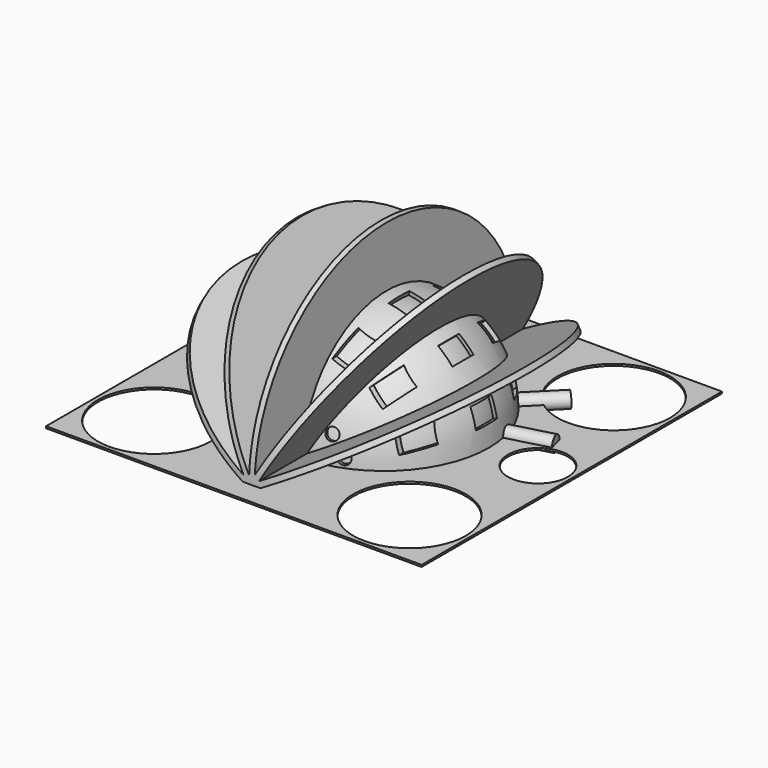
from build123d import *

# Parameters (mm, degrees)
CYLINDER_R                  = 2
CYLINDER_DEPTH              = 39
CYLINDER_PITCH_ANGLE        = 90
CYLINDER_PLACEMENT_ANGLE    = 15
ARRAY_COUNT                 = 6
ARRAY_ANGLE                 = 150
SPHERE009_ANGLE             = 180
SPHERE009_ROLL_ANGLE        = 90
BOX007_W                    = 2.5
BOX007_H                    = 100
BOX007_DEPTH                = 100
BOX007_PLACEMENT_ANGLE      = 90
ARRAY001_COUNT              = 2
ARRAY001_ROLL_ANGLE         = 90
BOX009_W                    = 5.3
BOX009_H                    = 60
BOX009_DEPTH                = 7
BOX009_PLACEMENT_ANGLE      = 15
ARRAY003_COUNT              = 12
BOX008_W                    = 5
BOX008_H                    = 5.3
BOX008_DEPTH                = 120
BOX008_PLACEMENT_ANGLE      = -15
ARRAY002_COUNT              = 12
CYLINDER013_R               = 27
CYLINDER013_DEPTH           = 10
CYLINDER013_ROLL_ANGLE      = 90
CYLINDER002_R               = 1.6
CYLINDER002_DEPTH           = 39
CYLINDER002_ROLL_ANGLE      = -17.874284
CYLINDER002_PITCH_ANGLE     = 7.410184
CYLINDER002_PLACEMENT_ANGLE = 7.254845
CYLINDER003_R               = 1.6
CYLINDER003_DEPTH           = 39
CYLINDER003_ROLL_ANGLE      = -18.739996
CYLINDER003_PITCH_ANGLE     = 9.675429
CYLINDER003_PLACEMENT_ANGLE = -19.302998
CYLINDER004_R               = 1.6
CYLINDER004_DEPTH           = 39
CYLINDER004_ROLL_ANGLE      = -20.379783
CYLINDER004_PITCH_ANGLE     = -7.550786
CYLINDER004_PLACEMENT_ANGLE = 27.229302
CYLINDER005_R               = 1.6
CYLINDER005_DEPTH           = 39
CYLINDER005_ROLL_ANGLE      = -22.214611
CYLINDER005_PITCH_ANGLE     = -1.938961
CYLINDER005_PLACEMENT_ANGLE = 73.577978
CYLINDER006_R               = 1.6
CYLINDER006_DEPTH           = 39
CYLINDER006_ROLL_ANGLE      = -21.8467
CYLINDER006_PITCH_ANGLE     = 0.650257
CYLINDER006_PLACEMENT_ANGLE = -75.779692
CYLINDER007_R               = 1.6
CYLINDER007_DEPTH           = 39
CYLINDER007_ROLL_ANGLE      = -161
CYLINDER007_PLACEMENT_ANGLE = 16
CYLINDER008_R               = 1.6
CYLINDER008_DEPTH           = 39
CYLINDER008_ROLL_ANGLE      = -161
CYLINDER008_PITCH_ANGLE     = 0
CYLINDER008_PLACEMENT_ANGLE = -15
CYLINDER009_R               = 1.6
CYLINDER009_DEPTH           = 39
CYLINDER009_ROLL_ANGLE      = -165.67
CYLINDER009_PITCH_ANGLE     = -14.3842
CYLINDER009_PLACEMENT_ANGLE = -1.8727
CYLINDER010_R               = 1.6
CYLINDER010_DEPTH           = 39
CYLINDER010_ROLL_ANGLE      = -166.499
CYLINDER010_PITCH_ANGLE     = -15
CYLINDER010_PLACEMENT_ANGLE = 94.823
CYLINDER011_R               = 1.6
CYLINDER011_DEPTH           = 39
CYLINDER011_ROLL_ANGLE      = -160.836
CYLINDER011_PITCH_ANGLE     = -7.9668
CYLINDER011_PLACEMENT_ANGLE = 99.882
CYLINDER012_R               = 1.6
CYLINDER012_DEPTH           = 39
CYLINDER012_ROLL_ANGLE      = -163.499
CYLINDER012_PITCH_ANGLE     = 13.8791
CYLINDER012_PLACEMENT_ANGLE = -116.192
CYLINDER001_R               = 1.6
CYLINDER001_DEPTH           = 39
CYLINDER001_ROLL_ANGLE      = -16.880997
CYLINDER001_PITCH_ANGLE     = -7.288422
CYLINDER001_PLACEMENT_ANGLE = -7.573199
SPHERE003_ANGLE             = 180
SPHERE_ANGLE                = 180
SPHERE002_ANGLE             = 180
BOX001_W                    = 1.5
BOX001_H                    = 50
BOX001_DEPTH                = 100
BOX001_PLACEMENT_ANGLE      = 30
BOX002_W                    = 1.5
BOX002_H                    = 50
BOX002_DEPTH                = 100
BOX002_PLACEMENT_ANGLE      = -60
BOX003_W                    = 0.5
BOX003_H                    = 50
BOX003_DEPTH                = 100
BOX003_PLACEMENT_ANGLE      = -90
BOX004_W                    = 1.5
BOX004_H                    = 50
BOX004_DEPTH                = 100
BOX004_PLACEMENT_ANGLE      = 30
BOX005_W                    = 1.5
BOX005_H                    = 50
BOX005_DEPTH                = 100
BOX005_PLACEMENT_ANGLE      = 60
BOX006_W                    = 0.5
BOX006_H                    = 50
BOX006_DEPTH                = 100
BOX006_PLACEMENT_ANGLE      = 90
BOX_W                       = 1.5
BOX_H                       = 50
BOX_DEPTH                   = 100
SPHERE001_ANGLE             = 180
CUT008_ROLL_ANGLE           = 90


with BuildPart() as array:
    # Cylinder → Cylinder (new body)
    with BuildSketch(Plane.XY):
        Circle(CYLINDER_R)
    extrude(amount=CYLINDER_DEPTH)


with BuildPart() as array_1:
    # Cylinder pitch: moved
    add(array.part.rotate(Axis((0, 0, 0), (0, 1, 0)), CYLINDER_PITCH_ANGLE))


with BuildPart() as array_2:
    # Cylinder placement: moved
    add(array_1.part.rotate(Axis((0, 0, 0), (0, 0, 1)), CYLINDER_PLACEMENT_ANGLE))


with BuildPart() as array_copy1:
    # Array: instance of Array
    add(array_2.part.rotate(Axis((0, 0, 0), (0, 0, 1)), 1 * ARRAY_ANGLE / (ARRAY_COUNT - 1)))


with BuildPart() as array_copy2:
    # Array: instance of Array
    add(array_2.part.rotate(Axis((0, 0, 0), (0, 0, 1)), 2 * ARRAY_ANGLE / (ARRAY_COUNT - 1)))


with BuildPart() as array_copy3:
    # Array: instance of Array
    add(array_2.part.rotate(Axis((0, 0, 0), (0, 0, 1)), 3 * ARRAY_ANGLE / (ARRAY_COUNT - 1)))


with BuildPart() as array_copy4:
    # Array: instance of Array
    add(array_2.part.rotate(Axis((0, 0, 0), (0, 0, 1)), 4 * ARRAY_ANGLE / (ARRAY_COUNT - 1)))


with BuildPart() as array_copy5:
    # Array: instance of Array
    add(array_2.part.rotate(Axis((0, 0, 0), (0, 0, 1)), 5 * ARRAY_ANGLE / (ARRAY_COUNT - 1)))


with BuildPart() as sphere009:
    # Sphere009 → Sphere009 (revolve)
    with BuildSketch(Plane.XZ):
        with BuildLine():
            ThreePointArc((0, -26), (26, 0), (0, 26))
            Line((0, 26), (0, -26))
        make_face()
    revolve(axis=Axis((0, 0, 0), (0, 0, 1)), revolution_arc=SPHERE009_ANGLE)


with BuildPart() as sphere009_1:
    # Sphere009 roll: moved
    add(sphere009.part.rotate(Axis((0, 0, 0), (1, 0, 0)), SPHERE009_ROLL_ANGLE))


with BuildPart() as sphere009_2:
    # Sphere009 placement: moved
    add(sphere009_1.part.moved(Location((0, -1, 0))))


with BuildPart() as obj1:
    # Box007 → Box007 (new body)
    with BuildSketch(Plane.XY):
        with Locations((1.25, 50)):
            Rectangle(BOX007_W, BOX007_H)
    extrude(amount=BOX007_DEPTH)


with BuildPart() as obj1_1:
    # Box007 placement: moved
    add(obj1.part.moved(Location((50.5, -3, -50))).rotate(Axis((50.5, -3, -50), (0, 0, 1)), BOX007_PLACEMENT_ANGLE))


with BuildPart() as array001:
    # Sphere008 → Sphere008 (revolve)
    with BuildSketch(Plane(origin=(41, 0, 0), x_dir=(1, 0, 0), z_dir=(0, -1, 0))):
        with BuildLine():
            ThreePointArc((0, -8), (8, 0), (0, 8))
            Line((0, 8), (0, -8))
        make_face()
    revolve(axis=Axis((41, 0, 0), (0, 0, 1)))

    # Array001: Array001 ×2 about axis
    array001_axis = Axis((0, 0, 0), (0, 0, 1))


with BuildPart() as array001_1:
    add(array001.part)
    for i in range(1, ARRAY001_COUNT):
        add(array001.part.rotate(array001_axis, i * 360 / ARRAY001_COUNT))


with BuildPart() as array001_2:
    # Array001 roll: moved
    add(array001_1.part.rotate(Axis((0, 0, 0), (1, 0, 0)), ARRAY001_ROLL_ANGLE))


with BuildPart() as array001_3:
    # Array001 placement: moved
    add(array001_2.part)


with BuildPart() as array003:
    # Box009 → Box009 (new body)
    with BuildSketch(Plane.XY):
        with Locations((2.65, 30)):
            Rectangle(BOX009_W, BOX009_H)
    extrude(amount=BOX009_DEPTH)


with BuildPart() as array003_1:
    # Box009 placement: moved
    add(array003.part.moved(Location((-2.65, -2.65, -3.5))).rotate(Axis((-2.65, -2.65, -3.5), (0, 0, 1)), BOX009_PLACEMENT_ANGLE))

    # Array003: Array003 ×12 about axis
    array003_axis = Axis((0, 0, 0), (0, 0, 1))


with BuildPart() as array003_2:
    add(array003_1.part)
    for i in range(1, ARRAY003_COUNT):
        add(array003_1.part.rotate(array003_axis, i * 360 / ARRAY003_COUNT))


with BuildPart() as obj2:
    # Box008 → Box008 (new body)
    with BuildSketch(Plane.XY):
        with Locations((2.5, 2.65)):
            Rectangle(BOX008_W, BOX008_H)
    extrude(amount=BOX008_DEPTH)


with BuildPart() as obj2_1:
    # Box008 placement: moved
    add(obj2.part.moved(Location((-25, 3, -60))).rotate(Axis((-25, 3, -60), (0, 0, 1)), BOX008_PLACEMENT_ANGLE))

    # Array002: obj2 ×12 about axis
    array002_axis = Axis((0, 0, 0), (0, 0, 1))


with BuildPart() as obj2_2:
    add(obj2_1.part)
    for i in range(1, ARRAY002_COUNT):
        add(obj2_1.part.rotate(array002_axis, i * 360 / ARRAY002_COUNT))

    # Fusion004: union Array003
    add(array003_2.part)


with BuildPart() as cylinder013:
    # Cylinder013 → Cylinder013 (new body)
    with BuildSketch(Plane.XY):
        Circle(CYLINDER013_R)
    extrude(amount=CYLINDER013_DEPTH)


with BuildPart() as cylinder013_1:
    # Cylinder013 roll: moved
    add(cylinder013.part.rotate(Axis((0, 0, 0), (1, 0, 0)), CYLINDER013_ROLL_ANGLE))


with BuildPart() as cylinder013_2:
    # Cylinder013 placement: moved
    add(cylinder013_1.part.moved(Location((1, 0, 0))))


with BuildPart() as sphere005:
    # Sphere005 → Sphere005 (revolve)
    with BuildSketch(Plane(origin=(34, 0, -34), x_dir=(1, 0, 0), z_dir=(0, -1, 0))):
        with BuildLine():
            ThreePointArc((0, -15), (15, 0), (0, 15))
            Line((0, 15), (0, -15))
        make_face()
    revolve(axis=Axis((34, 0, -34), (0, 0, 1)))


with BuildPart() as sphere006:
    # Sphere006 → Sphere006 (revolve)
    with BuildSketch(Plane(origin=(34, 0, 34), x_dir=(1, 0, 0), z_dir=(0, -1, 0))):
        with BuildLine():
            ThreePointArc((0, -15), (15, 0), (0, 15))
            Line((0, 15), (0, -15))
        make_face()
    revolve(axis=Axis((34, 0, 34), (0, 0, 1)))


with BuildPart() as sphere007:
    # Sphere007 → Sphere007 (revolve)
    with BuildSketch(Plane(origin=(-34, 0, 34), x_dir=(1, 0, 0), z_dir=(0, -1, 0))):
        with BuildLine():
            ThreePointArc((0, -15), (15, 0), (0, 15))
            Line((0, 15), (0, -15))
        make_face()
    revolve(axis=Axis((-34, 0, 34), (0, 0, 1)))


with BuildPart() as fusion003:
    # Sphere004 → Sphere004 (revolve)
    with BuildSketch(Plane(origin=(-34, 0, -34), x_dir=(1, 0, 0), z_dir=(0, -1, 0))):
        with BuildLine():
            ThreePointArc((0, -15), (15, 0), (0, 15))
            Line((0, 15), (0, -15))
        make_face()
    revolve(axis=Axis((-34, 0, -34), (0, 0, 1)))

    # Fusion003: union Sphere005, Sphere006, Sphere007
    add(sphere005.part)
    add(sphere006.part)
    add(sphere007.part)


with BuildPart() as cylinder002:
    # Cylinder002 → Cylinder002 (new body)
    with BuildSketch(Plane.XY):
        Circle(CYLINDER002_R)
    extrude(amount=CYLINDER002_DEPTH)


with BuildPart() as cylinder002_1:
    # Cylinder002 roll: moved
    add(cylinder002.part.rotate(Axis((0, 0, 0), (1, 0, 0)), CYLINDER002_ROLL_ANGLE))


with BuildPart() as cylinder002_2:
    # Cylinder002 pitch: moved
    add(cylinder002_1.part.rotate(Axis((0, 0, 0), (0, 1, 0)), CYLINDER002_PITCH_ANGLE))


with BuildPart() as cylinder002_3:
    # Cylinder002 placement: moved
    add(cylinder002_2.part.rotate(Axis((0, 0, 0), (0, 0, 1)), CYLINDER002_PLACEMENT_ANGLE))


with BuildPart() as cylinder003:
    # Cylinder003 → Cylinder003 (new body)
    with BuildSketch(Plane.XY):
        Circle(CYLINDER003_R)
    extrude(amount=CYLINDER003_DEPTH)


with BuildPart() as cylinder003_1:
    # Cylinder003 roll: moved
    add(cylinder003.part.rotate(Axis((0, 0, 0), (1, 0, 0)), CYLINDER003_ROLL_ANGLE))


with BuildPart() as cylinder003_2:
    # Cylinder003 pitch: moved
    add(cylinder003_1.part.rotate(Axis((0, 0, 0), (0, 1, 0)), CYLINDER003_PITCH_ANGLE))


with BuildPart() as cylinder003_3:
    # Cylinder003 placement: moved
    add(cylinder003_2.part.rotate(Axis((0, 0, 0), (0, 0, 1)), CYLINDER003_PLACEMENT_ANGLE))


with BuildPart() as cylinder004:
    # Cylinder004 → Cylinder004 (new body)
    with BuildSketch(Plane.XY):
        Circle(CYLINDER004_R)
    extrude(amount=CYLINDER004_DEPTH)


with BuildPart() as cylinder004_1:
    # Cylinder004 roll: moved
    add(cylinder004.part.rotate(Axis((0, 0, 0), (1, 0, 0)), CYLINDER004_ROLL_ANGLE))


with BuildPart() as cylinder004_2:
    # Cylinder004 pitch: moved
    add(cylinder004_1.part.rotate(Axis((0, 0, 0), (0, 1, 0)), CYLINDER004_PITCH_ANGLE))


with BuildPart() as cylinder004_3:
    # Cylinder004 placement: moved
    add(cylinder004_2.part.rotate(Axis((0, 0, 0), (0, 0, 1)), CYLINDER004_PLACEMENT_ANGLE))


with BuildPart() as cylinder005:
    # Cylinder005 → Cylinder005 (new body)
    with BuildSketch(Plane.XY):
        Circle(CYLINDER005_R)
    extrude(amount=CYLINDER005_DEPTH)


with BuildPart() as cylinder005_1:
    # Cylinder005 roll: moved
    add(cylinder005.part.rotate(Axis((0, 0, 0), (1, 0, 0)), CYLINDER005_ROLL_ANGLE))


with BuildPart() as cylinder005_2:
    # Cylinder005 pitch: moved
    add(cylinder005_1.part.rotate(Axis((0, 0, 0), (0, 1, 0)), CYLINDER005_PITCH_ANGLE))


with BuildPart() as cylinder005_3:
    # Cylinder005 placement: moved
    add(cylinder005_2.part.rotate(Axis((0, 0, 0), (0, 0, 1)), CYLINDER005_PLACEMENT_ANGLE))


with BuildPart() as cylinder006:
    # Cylinder006 → Cylinder006 (new body)
    with BuildSketch(Plane.XY):
        Circle(CYLINDER006_R)
    extrude(amount=CYLINDER006_DEPTH)


with BuildPart() as cylinder006_1:
    # Cylinder006 roll: moved
    add(cylinder006.part.rotate(Axis((0, 0, 0), (1, 0, 0)), CYLINDER006_ROLL_ANGLE))


with BuildPart() as cylinder006_2:
    # Cylinder006 pitch: moved
    add(cylinder006_1.part.rotate(Axis((0, 0, 0), (0, 1, 0)), CYLINDER006_PITCH_ANGLE))


with BuildPart() as cylinder006_3:
    # Cylinder006 placement: moved
    add(cylinder006_2.part.rotate(Axis((0, 0, 0), (0, 0, 1)), CYLINDER006_PLACEMENT_ANGLE))


with BuildPart() as cylinder007:
    # Cylinder007 → Cylinder007 (new body)
    with BuildSketch(Plane.XY):
        Circle(CYLINDER007_R)
    extrude(amount=CYLINDER007_DEPTH)


with BuildPart() as cylinder007_1:
    # Cylinder007 roll: moved
    add(cylinder007.part.rotate(Axis((0, 0, 0), (1, 0, 0)), CYLINDER007_ROLL_ANGLE))


with BuildPart() as cylinder007_2:
    # Cylinder007 placement: moved
    add(cylinder007_1.part.rotate(Axis((0, 0, 0), (0, 0, 1)), CYLINDER007_PLACEMENT_ANGLE))


with BuildPart() as cylinder008:
    # Cylinder008 → Cylinder008 (new body)
    with BuildSketch(Plane.XY):
        Circle(CYLINDER008_R)
    extrude(amount=CYLINDER008_DEPTH)


with BuildPart() as cylinder008_1:
    # Cylinder008 roll: moved
    add(cylinder008.part.rotate(Axis((0, 0, 0), (1, 0, 0)), CYLINDER008_ROLL_ANGLE))


with BuildPart() as cylinder008_2:
    # Cylinder008 pitch: moved
    add(cylinder008_1.part.rotate(Axis((0, 0, 0), (0, 1, 0)), CYLINDER008_PITCH_ANGLE))


with BuildPart() as cylinder008_3:
    # Cylinder008 placement: moved
    add(cylinder008_2.part.rotate(Axis((0, 0, 0), (0, 0, 1)), CYLINDER008_PLACEMENT_ANGLE))


with BuildPart() as cylinder009:
    # Cylinder009 → Cylinder009 (new body)
    with BuildSketch(Plane.XY):
        Circle(CYLINDER009_R)
    extrude(amount=CYLINDER009_DEPTH)


with BuildPart() as cylinder009_1:
    # Cylinder009 roll: moved
    add(cylinder009.part.rotate(Axis((0, 0, 0), (1, 0, 0)), CYLINDER009_ROLL_ANGLE))


with BuildPart() as cylinder009_2:
    # Cylinder009 pitch: moved
    add(cylinder009_1.part.rotate(Axis((0, 0, 0), (0, 1, 0)), CYLINDER009_PITCH_ANGLE))


with BuildPart() as cylinder009_3:
    # Cylinder009 placement: moved
    add(cylinder009_2.part.rotate(Axis((0, 0, 0), (0, 0, 1)), CYLINDER009_PLACEMENT_ANGLE))


with BuildPart() as cylinder010:
    # Cylinder010 → Cylinder010 (new body)
    with BuildSketch(Plane.XY):
        Circle(CYLINDER010_R)
    extrude(amount=CYLINDER010_DEPTH)


with BuildPart() as cylinder010_1:
    # Cylinder010 roll: moved
    add(cylinder010.part.rotate(Axis((0, 0, 0), (1, 0, 0)), CYLINDER010_ROLL_ANGLE))


with BuildPart() as cylinder010_2:
    # Cylinder010 pitch: moved
    add(cylinder010_1.part.rotate(Axis((0, 0, 0), (0, 1, 0)), CYLINDER010_PITCH_ANGLE))


with BuildPart() as cylinder010_3:
    # Cylinder010 placement: moved
    add(cylinder010_2.part.rotate(Axis((0, 0, 0), (0, 0, 1)), CYLINDER010_PLACEMENT_ANGLE))


with BuildPart() as cylinder011:
    # Cylinder011 → Cylinder011 (new body)
    with BuildSketch(Plane.XY):
        Circle(CYLINDER011_R)
    extrude(amount=CYLINDER011_DEPTH)


with BuildPart() as cylinder011_1:
    # Cylinder011 roll: moved
    add(cylinder011.part.rotate(Axis((0, 0, 0), (1, 0, 0)), CYLINDER011_ROLL_ANGLE))


with BuildPart() as cylinder011_2:
    # Cylinder011 pitch: moved
    add(cylinder011_1.part.rotate(Axis((0, 0, 0), (0, 1, 0)), CYLINDER011_PITCH_ANGLE))


with BuildPart() as cylinder011_3:
    # Cylinder011 placement: moved
    add(cylinder011_2.part.rotate(Axis((0, 0, 0), (0, 0, 1)), CYLINDER011_PLACEMENT_ANGLE))


with BuildPart() as cylinder012:
    # Cylinder012 → Cylinder012 (new body)
    with BuildSketch(Plane.XY):
        Circle(CYLINDER012_R)
    extrude(amount=CYLINDER012_DEPTH)


with BuildPart() as cylinder012_1:
    # Cylinder012 roll: moved
    add(cylinder012.part.rotate(Axis((0, 0, 0), (1, 0, 0)), CYLINDER012_ROLL_ANGLE))


with BuildPart() as cylinder012_2:
    # Cylinder012 pitch: moved
    add(cylinder012_1.part.rotate(Axis((0, 0, 0), (0, 1, 0)), CYLINDER012_PITCH_ANGLE))


with BuildPart() as cylinder012_3:
    # Cylinder012 placement: moved
    add(cylinder012_2.part.rotate(Axis((0, 0, 0), (0, 0, 1)), CYLINDER012_PLACEMENT_ANGLE))


with BuildPart() as fusion002:
    # Cylinder001 → Cylinder001 (new body)
    with BuildSketch(Plane.XY):
        Circle(CYLINDER001_R)
    extrude(amount=CYLINDER001_DEPTH)


with BuildPart() as fusion002_1:
    # Cylinder001 roll: moved
    add(fusion002.part.rotate(Axis((0, 0, 0), (1, 0, 0)), CYLINDER001_ROLL_ANGLE))


with BuildPart() as fusion002_2:
    # Cylinder001 pitch: moved
    add(fusion002_1.part.rotate(Axis((0, 0, 0), (0, 1, 0)), CYLINDER001_PITCH_ANGLE))


with BuildPart() as fusion002_3:
    # Cylinder001 placement: moved
    add(fusion002_2.part.rotate(Axis((0, 0, 0), (0, 0, 1)), CYLINDER001_PLACEMENT_ANGLE))

    # Fusion002: union Cylinder002, Cylinder003, Cylinder004, Cylinder005, Cylinder006, Cylinder007, Cylinder008, Cylinder009, Cylinder010, Cylinder011, Cylinder012
    add(cylinder002_3.part)
    add(cylinder003_3.part)
    add(cylinder004_3.part)
    add(cylinder005_3.part)
    add(cylinder006_3.part)
    add(cylinder007_2.part)
    add(cylinder008_3.part)
    add(cylinder009_3.part)
    add(cylinder010_3.part)
    add(cylinder011_3.part)
    add(cylinder012_3.part)


with BuildPart() as sphere003:
    # Sphere003 → Sphere003 (revolve)
    with BuildSketch(Plane.XZ):
        with BuildLine():
            ThreePointArc((0, -27), (27, 0), (0, 27))
            Line((0, 27), (0, -27))
        make_face()
    revolve(axis=Axis((0, 0, 0), (0, 0, 1)), revolution_arc=SPHERE003_ANGLE)


with BuildPart() as sphere:
    # Sphere → Sphere (revolve)
    with BuildSketch(Plane.XZ):
        with BuildLine():
            ThreePointArc((0, -44), (44, 0), (0, 44))
            Line((0, 44), (0, -44))
        make_face()
    revolve(axis=Axis((0, 0, 0), (0, 0, 1)), revolution_arc=SPHERE_ANGLE)


with BuildPart() as cut:
    # Sphere002 → Sphere002 (revolve)
    with BuildSketch(Plane.XZ):
        with BuildLine():
            ThreePointArc((0, -100), (100, 0), (0, 100))
            Line((0, 100), (0, -100))
        make_face()
    revolve(axis=Axis((0, 0, 0), (0, 0, 1)), revolution_arc=SPHERE002_ANGLE)

    # Cut: cut Sphere
    add(sphere.part, mode=Mode.SUBTRACT)


with BuildPart() as cube001:
    # Box001 → Box001 (new body)
    with BuildSketch(Plane.XY):
        with Locations((0.75, 25)):
            Rectangle(BOX001_W, BOX001_H)
    extrude(amount=BOX001_DEPTH)


with BuildPart() as cube001_1:
    # Box001 placement: moved
    add(cube001.part.moved(Location((-0.75, 0, -50))).rotate(Axis((-0.75, 0, -50), (0, 0, -1)), BOX001_PLACEMENT_ANGLE))


with BuildPart() as cube002:
    # Box002 → Box002 (new body)
    with BuildSketch(Plane.XY):
        with Locations((0.75, 25)):
            Rectangle(BOX002_W, BOX002_H)
    extrude(amount=BOX002_DEPTH)


with BuildPart() as cube002_1:
    # Box002 placement: moved
    add(cube002.part.moved(Location((-0.75, 0, -50))).rotate(Axis((-0.75, 0, -50), (0, 0, 1)), BOX002_PLACEMENT_ANGLE))


with BuildPart() as cube003:
    # Box003 → Box003 (new body)
    with BuildSketch(Plane.XY):
        with Locations((0.25, 25)):
            Rectangle(BOX003_W, BOX003_H)
    extrude(amount=BOX003_DEPTH)


with BuildPart() as cube003_1:
    # Box003 placement: moved
    add(cube003.part.moved(Location((0, 0, -50))).rotate(Axis((0, 0, -50), (0, 0, 1)), BOX003_PLACEMENT_ANGLE))


with BuildPart() as cube004:
    # Box004 → Box004 (new body)
    with BuildSketch(Plane.XY):
        with Locations((0.75, 25)):
            Rectangle(BOX004_W, BOX004_H)
    extrude(amount=BOX004_DEPTH)


with BuildPart() as cube004_1:
    # Box004 placement: moved
    add(cube004.part.moved(Location((-0.75, -1, -50))).rotate(Axis((-0.75, -1, -50), (0, 0, 1)), BOX004_PLACEMENT_ANGLE))


with BuildPart() as cube005:
    # Box005 → Box005 (new body)
    with BuildSketch(Plane.XY):
        with Locations((0.75, 25)):
            Rectangle(BOX005_W, BOX005_H)
    extrude(amount=BOX005_DEPTH)


with BuildPart() as cube005_1:
    # Box005 placement: moved
    add(cube005.part.moved(Location((-0.75, -1, -50))).rotate(Axis((-0.75, -1, -50), (0, 0, 1)), BOX005_PLACEMENT_ANGLE))


with BuildPart() as cube006:
    # Box006 → Box006 (new body)
    with BuildSketch(Plane.XY):
        with Locations((0.25, 25)):
            Rectangle(BOX006_W, BOX006_H)
    extrude(amount=BOX006_DEPTH)


with BuildPart() as cube006_1:
    # Box006 placement: moved
    add(cube006.part.moved(Location((0, -0.5, -50))).rotate(Axis((0, -0.5, -50), (0, 0, 1)), BOX006_PLACEMENT_ANGLE))


with BuildPart() as cut001:
    # Box → Box (new body)
    with BuildSketch(Plane(origin=(-0.75, 0, -50), x_dir=(1, 0, 0), z_dir=(0, 0, 1))):
        with Locations((0.75, 25)):
            Rectangle(BOX_W, BOX_H)
    extrude(amount=BOX_DEPTH)

    # Fusion: union Cube001, Cube002, Cube003, Cube004, Cube005, Cube006
    add(cube001_1.part)
    add(cube002_1.part)
    add(cube003_1.part)
    add(cube004_1.part)
    add(cube005_1.part)
    add(cube006_1.part)

    # Cut001: cut Cut
    add(cut.part, mode=Mode.SUBTRACT)


with BuildPart() as cut008:
    # Sphere001 → Sphere001 (revolve)
    with BuildSketch(Plane.XZ):
        with BuildLine():
            ThreePointArc((0, -28), (28, 0), (0, 28))
            Line((0, 28), (0, -28))
        make_face()
    revolve(axis=Axis((0, 0, 0), (0, 0, 1)), revolution_arc=SPHERE001_ANGLE)

    # Fusion001: union Cut001
    add(cut001.part)

    # Cut002: cut Sphere003
    add(sphere003.part, mode=Mode.SUBTRACT)

    # Cut003: cut Fusion002
    add(fusion002_3.part, mode=Mode.SUBTRACT)

    # Cut004: cut Fusion003
    add(fusion003.part, mode=Mode.SUBTRACT)

    # Cut005: cut Cylinder013
    add(cylinder013_2.part, mode=Mode.SUBTRACT)

    # Cut006: cut obj2
    add(obj2_2.part, mode=Mode.SUBTRACT)

    # Cut007: cut Array001
    add(array001_3.part, mode=Mode.SUBTRACT)

    # Cut008: cut obj1
    add(obj1_1.part, mode=Mode.SUBTRACT)


with BuildPart() as cut008_1:
    # Cut008 roll: moved
    add(cut008.part.rotate(Axis((0, 0, 0), (1, 0, 0)), CUT008_ROLL_ANGLE))


with BuildPart() as cut008_2:
    # Cut008 placement: moved
    add(cut008_1.part)


solid = Compound([array_2.part, array_copy1.part, array_copy2.part, array_copy3.part, array_copy4.part, array_copy5.part, sphere009_2.part, cut008_2.part])
